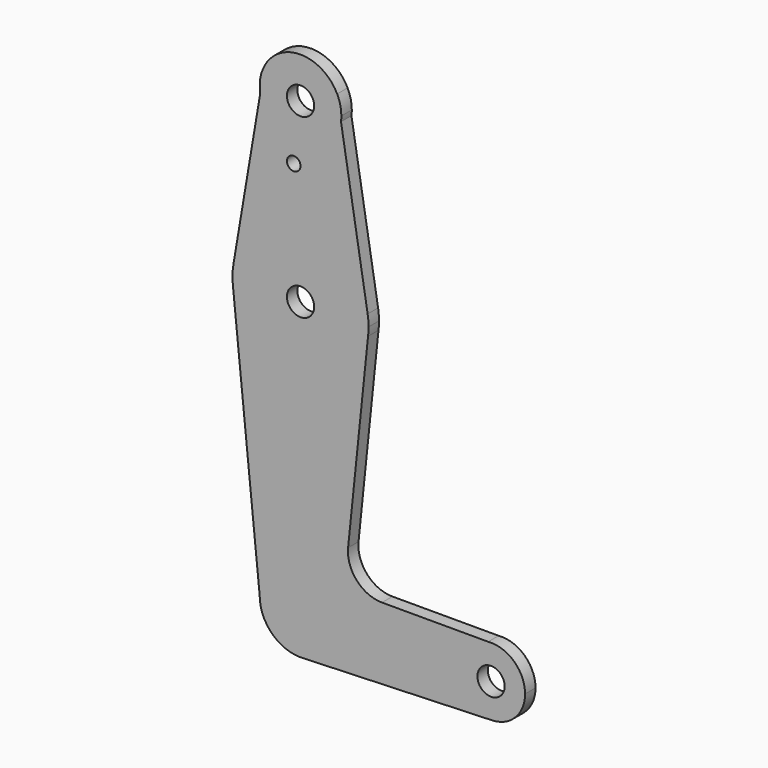
from build123d import *

# Parameters (mm, degrees)
F0_R     = 3.175
F0_R_2   = 1.5875
F1_DEPTH = 3.048


with BuildPart() as f1:
    # F0 (on Front) → F1 (new body)
    with BuildSketch(Plane.XZ):
        with BuildLine():
            ThreePointArc((-9.525, 0), (0, 9.525), (9.525, 0))
            Line((9.525, 0), (36.5125, 0))
            ThreePointArc((36.5125, 0), (38.605385, 5.370697), (43.780377, 7.909204))
            Line((43.780377, 7.909204), (19.011896, 7.909204))
            ThreePointArc((19.011896, 7.909204), (13.137807, 10.502095), (11.095287, 16.589469))
            Line((11.095287, 16.589469), (15.754219, 61.545461))
            ThreePointArc((15.754219, 61.545461), (-0.178582, 47.626004), (-15.794203, 61.90038))
            Line((-15.794203, 61.90038), (-9.525, 0))
        make_face()
        with BuildLine():
            ThreePointArc((0.677344, -9.500886), (6.970557, -6.491299), (9.525, 0))
            ThreePointArc((9.525, 0), (0, 9.525), (-9.525, 0))
            ThreePointArc((-9.525, 0), (-6.735192, -6.735192), (0, -9.525))
            Line((0, -9.525), (0.677344, -9.500886))
        make_face()
        with BuildLine():
            Line((36.5125, 0), (9.525, 0))
            ThreePointArc((9.525, 0), (6.970557, -6.491299), (0.677344, -9.500886))
            Line((0.677344, -9.500886), (44.732405, -7.932475))
            ThreePointArc((44.732405, -7.932475), (38.93809, -5.711633), (36.5125, 0))
        make_face()
        with BuildLine():
            ThreePointArc((47.625, 0), (44.45, 3.175), (41.275, 0))
            ThreePointArc((41.275, 0), (44.45, -3.175), (47.625, 0))
        make_face()
        with BuildLine():
            ThreePointArc((43.780377, 7.909204), (38.605385, 5.370697), (36.5125, 0))
            ThreePointArc((36.5125, 0), (38.93809, -5.711633), (44.732405, -7.932475))
            ThreePointArc((44.732405, -7.932475), (50.161633, -5.51191), (52.3875, 0))
            ThreePointArc((52.3875, 0), (49.820697, 5.844615), (43.780377, 7.909204))
        make_face()
        with BuildLine():
            ThreePointArc((47.625, 0), (44.45, -3.175), (41.275, 0))
            ThreePointArc((41.275, 0), (44.45, 3.175), (47.625, 0))
        make_face(mode=Mode.SUBTRACT)
        with BuildLine():
            ThreePointArc((0, -9.525), (0.338886, -9.51897), (0.677344, -9.500886))
            Line((0.677344, -9.500886), (0, -9.525))
        make_face()
        with BuildLine():
            ThreePointArc((-15.654504, 66.13669), (-15.866375, 64.023219), (-15.794203, 61.90038))
            ThreePointArc((-15.794203, 61.90038), (-0.178582, 47.626004), (15.754219, 61.545461))
            ThreePointArc((15.754219, 61.545461), (15.844776, 62.520866), (15.875, 63.5))
            ThreePointArc((15.875, 63.5), (15.821396, 64.803473), (15.660948, 66.098142))
            ThreePointArc((15.660948, 66.098142), (0.019541, 79.374988), (-15.654504, 66.13669))
        make_face()
        with Locations((0, 63.5)):
            Circle(F0_R, mode=Mode.SUBTRACT)
        with BuildLine():
            Line((-9.402802, 103.254165), (-15.654504, 66.13669))
            ThreePointArc((-15.654504, 66.13669), (0.019541, 79.374988), (15.660948, 66.098142))
            Line((15.660948, 66.098142), (9.44669, 103.556119))
            ThreePointArc((9.44669, 103.556119), (0.152563, 95.251222), (-9.402802, 103.254165))
        make_face()
        with Locations((-1.5875, 91.382228)):
            Circle(F0_R_2, mode=Mode.SUBTRACT)
        with BuildLine():
            Line((-8.385852, 109.29198), (-9.402802, 103.254165))
            ThreePointArc((-9.402802, 103.254165), (0.152563, 95.251222), (9.44669, 103.556119))
            Line((9.44669, 103.556119), (8.547032, 108.979029))
            ThreePointArc((8.547032, 108.979029), (0.176009, 114.298374), (-8.385852, 109.29198))
        make_face()
        with Locations((0, 104.775)):
            Circle(F0_R, mode=Mode.SUBTRACT)
        with BuildLine():
            ThreePointArc((-8.385852, 109.29198), (-9.392702, 106.357014), (-9.402802, 103.254165))
            Line((-9.402802, 103.254165), (-8.385852, 109.29198))
        make_face()
        with BuildLine():
            Line((8.547032, 108.979029), (9.44669, 103.556119))
            ThreePointArc((9.44669, 103.556119), (9.505402, 104.164303), (9.525, 104.775))
            ThreePointArc((9.525, 104.775), (9.277287, 106.933141), (8.547032, 108.979029))
        make_face()
    extrude(amount=F1_DEPTH)


solid = f1.part
